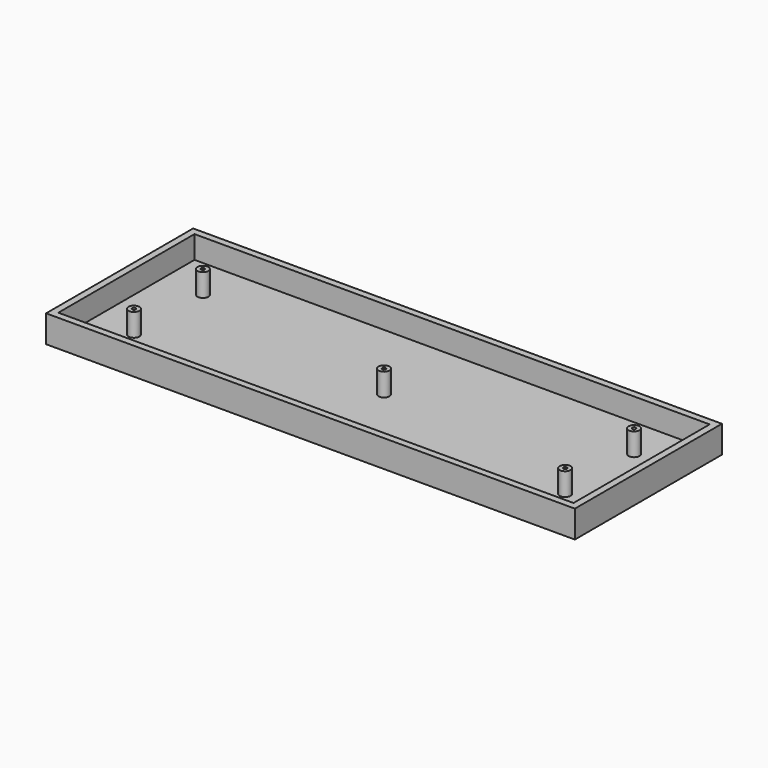
from build123d import *

# Parameters (mm, degrees)
F0_W     = 233
F0_H     = 81
F1_DEPTH = 12
F2_W     = 227
F2_H     = 75
F2_R     = 2.4
F2_R_2   = 0.8
F3_DEPTH = 10


with BuildPart() as f1:
    # F0 (on Top) → F1 (new body)
    with BuildSketch(Plane.XY):
        Rectangle(F0_W, F0_H)
    extrude(amount=F1_DEPTH)

    # F2 (on face) → F3 (cut)
    with BuildSketch(Plane.XY.offset(12)):
        Rectangle(F2_W, F2_H)
        with Locations((-95, -19)):
            Circle(F2_R, mode=Mode.SUBTRACT)
        with Locations((95, -19)):
            Circle(F2_R, mode=Mode.SUBTRACT)
        with Locations((-95, 19)):
            Circle(F2_R, mode=Mode.SUBTRACT)
        Circle(F2_R, mode=Mode.SUBTRACT)
        with Locations((95, 19)):
            Circle(F2_R, mode=Mode.SUBTRACT)
        with Locations((-95, 19)):
            Circle(F2_R_2)
        with Locations((-95, -19)):
            Circle(F2_R_2)
        Circle(F2_R_2)
        with Locations((95, 19)):
            Circle(F2_R_2)
        with Locations((95, -19)):
            Circle(F2_R_2)
    extrude(amount=-F3_DEPTH, mode=Mode.SUBTRACT)


solid = f1.part
